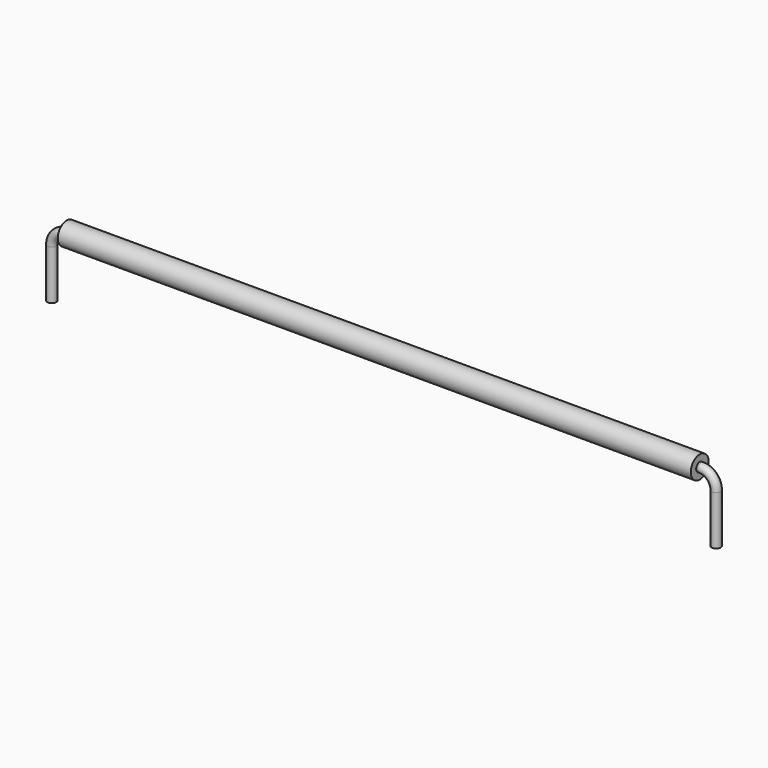
from build123d import *

# Parameters (mm, degrees)
SKETCH001_R = 0.3
SKETCH002_R = 0.75
PAD_DEPTH   = 42.4


with BuildPart() as part:
    # AdditivePipe: sweep along a path in Sketch
    with BuildLine(Plane.XZ) as additivepipe_path:
        Line((0, -3), (0, 0.3))
        ThreePointArc((0, 0.3), (0.292893, 1.007107), (1, 1.3))
        Line((1, 1.3), (43.5, 1.3))
        ThreePointArc((43.5, 1.3), (44.207107, 1.007107), (44.5, 0.3))
        Line((44.5, 0.3), (44.5, -3))
    # Sketch001 (on DatumPlane) → AdditivePipe (sweep)
    with BuildSketch(Plane.XY.offset(-3)):
        Circle(SKETCH001_R)
    sweep(path=additivepipe_path.line)

    # Sketch002 (on DatumPlane) → Pad (new body)
    with BuildSketch(Plane.YZ.offset(1)):
        with Locations((0, 1.3)):
            Circle(SKETCH002_R)
    extrude(amount=PAD_DEPTH)


solid = part.part
